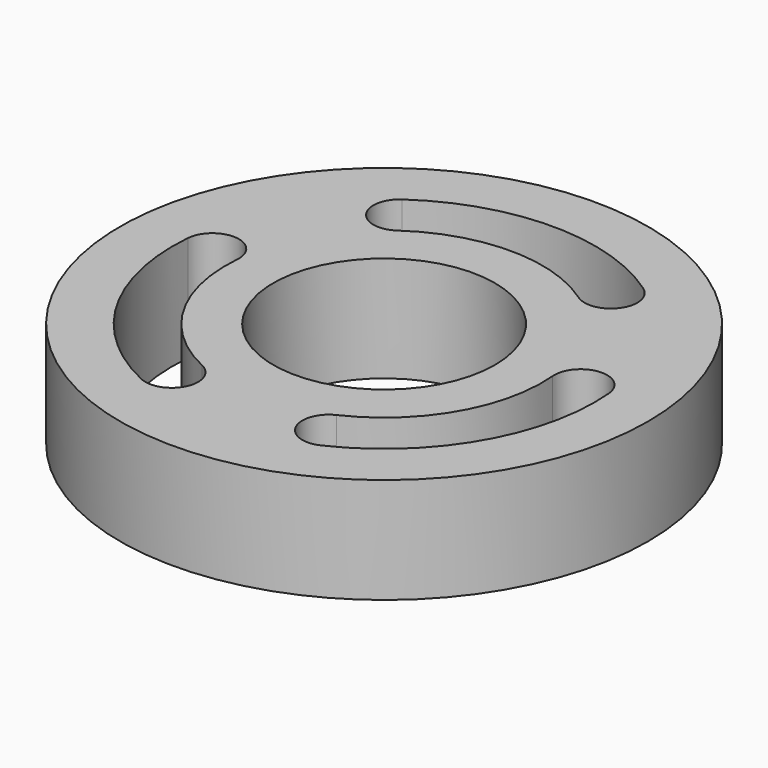
from build123d import *

# Parameters (mm, degrees)
F0_R     = 31.75
F1_DEPTH = 12.7
F2_R     = 13.335
F3_DEPTH = 25.4


with BuildPart() as f1:
    # F0 (on Top) → F1 (new body)
    with BuildSketch(Plane.XY):
        Circle(F0_R)
        with BuildLine():
            ThreePointArc((-10.794772, -22.992018), (-21.997045, -12.7), (-25.309058, 2.147462))
            ThreePointArc((-25.309058, 2.147462), (-21.876993, 5.042662), (-18.981793, 1.610597))
            ThreePointArc((-18.981793, 1.610597), (-16.497784, -9.525), (-8.096079, -17.244014))
            ThreePointArc((-8.096079, -17.244014), (-6.571423, -21.467362), (-10.794772, -22.992018))
        make_face(mode=Mode.SUBTRACT)
        with BuildLine():
            ThreePointArc((25.309058, 2.147462), (21.997045, -12.7), (10.794772, -22.992018))
            ThreePointArc((10.794772, -22.992018), (6.571423, -21.467362), (8.096079, -17.244014))
            ThreePointArc((8.096079, -17.244014), (16.497784, -9.525), (18.981793, 1.610597))
            ThreePointArc((18.981793, 1.610597), (21.876993, 5.042662), (25.309058, 2.147462))
        make_face(mode=Mode.SUBTRACT)
        with BuildLine():
            ThreePointArc((10.885714, 15.633417), (0, 19.05), (-10.885714, 15.633417))
            ThreePointArc((-10.885714, 15.633417), (-15.305569, 16.424701), (-14.514286, 20.844556))
            ThreePointArc((-14.514286, 20.844556), (0, 25.4), (14.514286, 20.844556))
            ThreePointArc((14.514286, 20.844556), (15.305569, 16.424701), (10.885714, 15.633417))
        make_face(mode=Mode.SUBTRACT)
    extrude(amount=F1_DEPTH)

    # F2 (on face) → F3 (cut)
    with BuildSketch(Plane.XY.offset(12.7)):
        Circle(F2_R)
    extrude(amount=-F3_DEPTH, mode=Mode.SUBTRACT)


solid = f1.part
